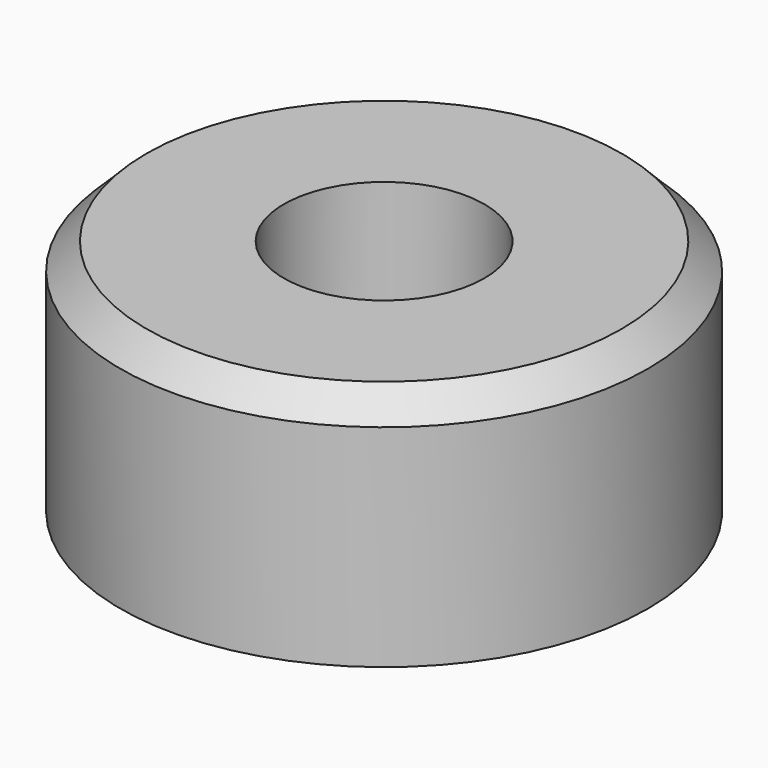
from build123d import *

# Parameters (mm, degrees)
F0_R     = 5
F0_R_2   = 1.9
F1_DEPTH = 4.5
F2_DEPTH = 1
F3_SIZE  = 0.5


with BuildPart() as f1:
    # F0 (on Top) → F1 (new body)
    with BuildSketch(Plane.XY):
        Circle(F0_R)
        Circle(F0_R_2, mode=Mode.SUBTRACT)
    extrude(amount=F1_DEPTH)

    # F0 (on Top) → F2 (join)
    with BuildSketch(Plane.XY):
        Circle(F0_R_2)
    extrude(amount=F2_DEPTH)

    # F3
    f3_edges = [f1.edges().sort_by_distance(p)[0] for p in [
        (-5, 0, 4.5),
    ]]
    chamfer(f3_edges, length=F3_SIZE)


solid = f1.part
